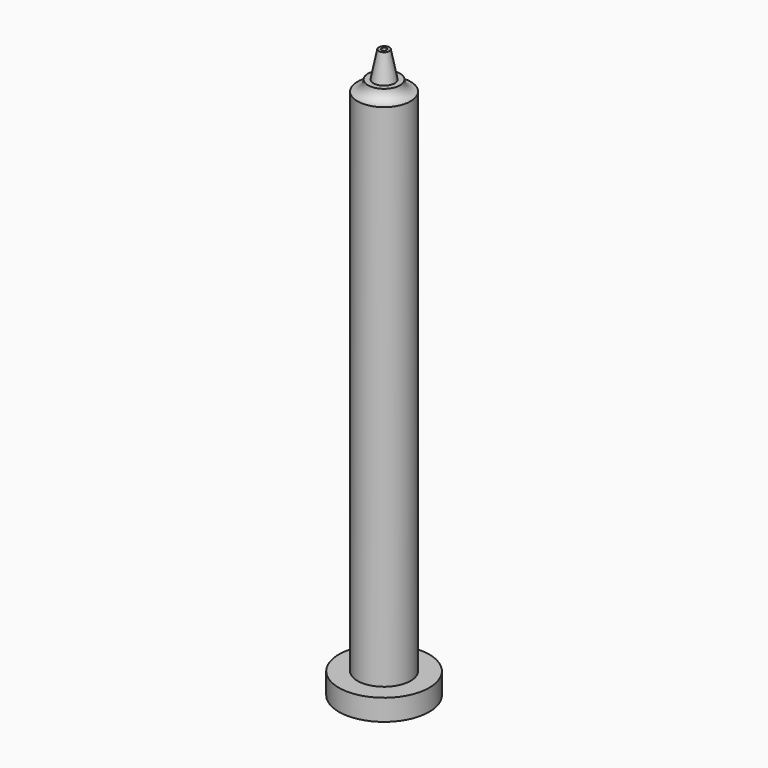
from build123d import *

# Parameters (mm, degrees)
F0_R     = 8.5
F1_DEPTH = 4
F2_R     = 5
F3_DEPTH = 100
F8_R     = 0.5
F9_DEPTH = 129.4


with BuildPart() as f1:
    # F0 (on Top) → F1 (new body)
    with BuildSketch(Plane.XY):
        Circle(F0_R)
    extrude(amount=F1_DEPTH)

    # F2 (on Top) → F3 (join)
    with BuildSketch(Plane.XY):
        Circle(F2_R)
    extrude(amount=F3_DEPTH)

    # F4 (on Right) → F5 (revolve)
    with BuildSketch(Plane.YZ):
        with BuildLine():
            Line((3, 102), (0, 102))
            Line((0, 102), (0, 100))
            Line((0, 100), (5, 100))
            ThreePointArc((5, 100), (3.585786, 100.585786), (3, 102))
        make_face()
    revolve(axis=Axis((0, 0, 101), (0, 0, -1)))

    # F6 (on Right) → F7 (revolve)
    with BuildSketch(Plane.YZ):
        Polygon((0, 107), (0, 102), (2, 102), (1, 107), align=None)
    revolve(axis=Axis((0, 0, 104.5), (0, 0, 1)))

    # F8 (on face) → F9 (cut)
    with BuildSketch(Plane.XY.offset(107)):
        Circle(F8_R)
    extrude(amount=-F9_DEPTH, mode=Mode.SUBTRACT)


solid = f1.part
